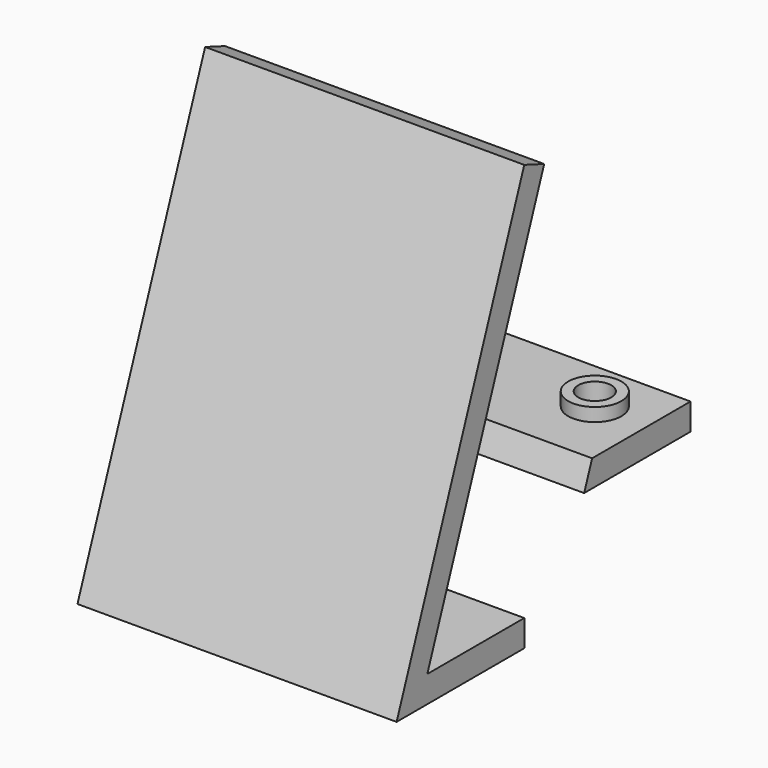
from build123d import *

# Parameters (mm, degrees)
F1_DEPTH    = 38.1
F2_DEPTH    = 25.4
F3_DEPTH    = 38.1
F4_R        = 3.937
F5_DEPTH    = 6.35
F4_R_2      = 6.35
F6_DEPTH    = 3.175
F6_FACE_R   = 6.35
F6_FACE_R_2 = 3.937
F7_DEPTH    = 12.7
F8_W        = 24.13
F8_H        = 13.208
F9_DEPTH    = 6.35


with BuildPart() as f1:
    # F0 (on Right) → F1 (new body, symmetric)
    with BuildSketch(Plane.YZ):
        Polygon((-38.1, 0), (0, 0), (0, 6.35), (-28.936947, 6.35), (-13.876878, 46.510183), (-11.495628, 52.860183), (5.94569, 99.370366), (0, 101.6), align=None)
    extrude(amount=F1_DEPTH, both=True)

    # F0 (on Right) → F2 (join, symmetric)
    with BuildSketch(Plane.YZ):
        Polygon((-11.495628, 52.860183), (-13.876878, 46.510183), (17.873122, 46.510183), (17.873122, 52.860183), align=None)
    extrude(amount=F2_DEPTH, both=True)

    # F2_face (on face) → F3 (join)
    with BuildSketch(Plane(origin=(25.4, 2.585703, 49.643949), x_dir=(0, 1, 0), z_dir=(1, 0, 0))):
        Polygon((-14.081331, 3.216234), (-16.462581, -3.133766), (15.287419, -3.133766), (15.287419, 3.216234), align=None)
    extrude(amount=F3_DEPTH)

    # F4 (on face) → F5 (cut, through all)
    with BuildSketch(Plane.XY.offset(52.860183)):
        with Locations((50.8, 5.173122)):
            Circle(F4_R)
    extrude(amount=-F5_DEPTH, mode=Mode.SUBTRACT)

    # F4 (on face) → F6 (join)
    with BuildSketch(Plane.XY.offset(52.860183)):
        with Locations((50.8, 5.173122)):
            Circle(F4_R_2)
        with Locations((50.8, 5.173122)):
            Circle(F4_R, mode=Mode.SUBTRACT)
    extrude(amount=F6_DEPTH)

    # F6_face (on face) → F7 (join)
    with BuildSketch(Plane(origin=(50.8, 5.173122, 56.035183), x_dir=(1, 0, 0), z_dir=(0, 0, 1))):
        Circle(F6_FACE_R)
        Circle(F6_FACE_R_2, mode=Mode.SUBTRACT)
    extrude(amount=-F7_DEPTH)

    # F8 (on face) → F9 (cut, through all)
    with BuildSketch(Plane.XY.offset(52.860183)):
        with Locations((-2.062116, 4.919122)):
            Rectangle(F8_W, F8_H)
    extrude(amount=-F9_DEPTH, mode=Mode.SUBTRACT)


solid = f1.part
